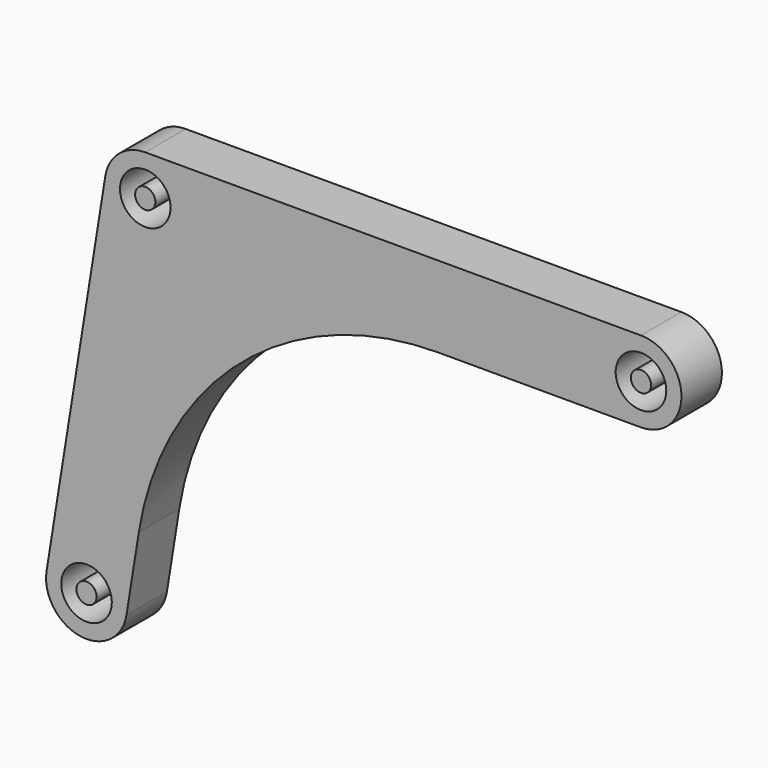
from build123d import *

# Parameters (mm, degrees)
F0_R     = 2.5
F0_R_2   = 1
F1_DEPTH = 5


with BuildPart() as f1:
    # F0 (on Front) → F1 (new body)
    with BuildSketch(Plane.XZ):
        with BuildLine():
            Line((-20.012532, -4), (0, -4))
            ThreePointArc((0, -4), (4, 0), (0, 4))
            Line((0, 4), (-49, 4))
            ThreePointArc((-49, 4), (-51.595137, 3.04389), (-52.949655, 0.632632))
            Line((-52.949655, 0.632632), (-58.754056, -35.605454))
            ThreePointArc((-58.754056, -35.605454), (-55.437033, -40.187742), (-50.854746, -36.870719))
            Line((-50.854746, -36.870719), (-49.634947, -29.255258))
            ThreePointArc((-49.634947, -29.255258), (-39.476059, -11.170827), (-20.012532, -4))
        make_face()
        with Locations((-54.804401, -36.238087)):
            Circle(F0_R, mode=Mode.SUBTRACT)
        with Locations((-49, 0)):
            Circle(F0_R, mode=Mode.SUBTRACT)
        Circle(F0_R, mode=Mode.SUBTRACT)
        with Locations((-49, 0)):
            Circle(F0_R_2)
        Circle(F0_R_2)
        with Locations((-54.804401, -36.238087)):
            Circle(F0_R_2)
    extrude(amount=F1_DEPTH)


solid = f1.part
